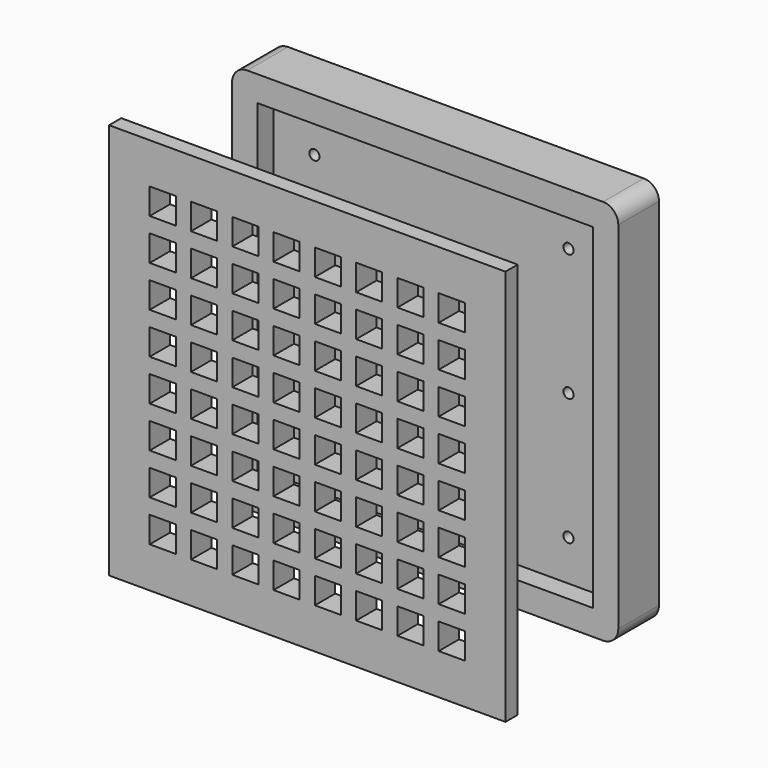
from build123d import *

# Parameters (mm, degrees)
SKETCH001_W                     = 76
SKETCH001_H                     = 76
PAD_DEPTH                       = 10
SKETCH_W                        = 66
SKETCH_H                        = 66
POCKET_DEPTH                    = 4
SKETCH002_R                     = 1
POCKET001_DEPTH                 = 10.001
FILLET_R                        = 3
SKETCH003_W                     = 78
SKETCH003_H                     = 78
PAD001_DEPTH                    = 3
SKETCH005_W                     = 66
SKETCH005_H                     = 66
PAD002_DEPTH                    = 2
SKETCH004_W                     = 5.13
SKETCH004_H                     = 5.13
POCKET002_DEPTH                 = 225.844836
SKETCH004_LINEARPATTERN_2_W     = 5.13
SKETCH004_LINEARPATTERN_2_H     = 5.13
POCKET002_LINEARPATTERN_2_DEPTH = 225.844836
SKETCH004_LINEARPATTERN_3_W     = 5.13
SKETCH004_LINEARPATTERN_3_H     = 5.13
POCKET002_LINEARPATTERN_3_DEPTH = 225.844836
SKETCH004_LINEARPATTERN_4_W     = 5.13
SKETCH004_LINEARPATTERN_4_H     = 5.13
POCKET002_LINEARPATTERN_4_DEPTH = 225.844836
SKETCH004_LINEARPATTERN_5_W     = 5.13
SKETCH004_LINEARPATTERN_5_H     = 5.13
POCKET002_LINEARPATTERN_5_DEPTH = 225.844836
SKETCH004_LINEARPATTERN_6_W     = 5.13
SKETCH004_LINEARPATTERN_6_H     = 5.13
POCKET002_LINEARPATTERN_6_DEPTH = 225.844836
SKETCH004_LINEARPATTERN_7_W     = 5.13
SKETCH004_LINEARPATTERN_7_H     = 5.13
POCKET002_LINEARPATTERN_7_DEPTH = 225.844836
SKETCH004_LINEARPATTERN_8_W     = 5.13
SKETCH004_LINEARPATTERN_8_H     = 5.13
POCKET002_LINEARPATTERN_8_DEPTH = 225.844836
LINEARPATTERN001_COUNT          = 8
LINEARPATTERN001_PITCH          = 8.124286


with BuildPart() as body:
    # Sketch001 → Pad (new body)
    with BuildSketch(Plane.XZ):
        Rectangle(SKETCH001_W, SKETCH001_H)
    extrude(amount=-PAD_DEPTH)

    # Sketch → Pocket (cut)
    with BuildSketch(Plane.XZ):
        Rectangle(SKETCH_W, SKETCH_H)
    extrude(amount=-POCKET_DEPTH, mode=Mode.SUBTRACT)

    # Sketch002 → Pocket001 (cut, through all)
    with BuildSketch(Plane.XZ):
        with Locations((-25, 25)):
            Circle(SKETCH002_R)
        with Locations((25, 25)):
            Circle(SKETCH002_R)
        with Locations((25, -25)):
            Circle(SKETCH002_R)
        with Locations((-25, -25)):
            Circle(SKETCH002_R)
        with Locations((-25, 0)):
            Circle(SKETCH002_R)
        with Locations((25, 0)):
            Circle(SKETCH002_R)
    extrude(amount=-POCKET001_DEPTH, mode=Mode.SUBTRACT)

    # Fillet
    fillet_edges = [body.edges().sort_by_distance(p)[0] for p in [
        (-38, 5, 38),
        (-38, 5, -38),
        (38, 5, 38),
        (38, 5, -38),
    ]]
    fillet(fillet_edges, radius=FILLET_R)


with BuildPart() as body001:
    # Sketch003 → Pad001 (new body)
    with BuildSketch(Plane.XZ):
        Rectangle(SKETCH003_W, SKETCH003_H)
    extrude(amount=PAD001_DEPTH)

    # Sketch005 → Pad002 (join)
    with BuildSketch(Plane.XZ):
        Rectangle(SKETCH005_W, SKETCH005_H)
    extrude(amount=-PAD002_DEPTH)

    # Sketch004 → Pocket002 (cut, through all)
    with BuildSketch(Plane.XZ.offset(3)):
        with Locations((-28.435, 28.435)):
            Rectangle(SKETCH004_W, SKETCH004_H)
    pocket002 = extrude(amount=-POCKET002_DEPTH, mode=Mode.SUBTRACT)

    # Sketch004 LinearPattern 2 → Pocket002 LinearPattern 2 (cut, through all)
    with BuildSketch(Plane(origin=(0, -3, -8.124286), x_dir=(1, 0, 0), z_dir=(0, -1, 0))):
        with Locations((-28.435, 28.435)):
            Rectangle(SKETCH004_LINEARPATTERN_2_W, SKETCH004_LINEARPATTERN_2_H)
    pocket002_linearpattern_2 = extrude(amount=-POCKET002_LINEARPATTERN_2_DEPTH, mode=Mode.SUBTRACT)

    # Sketch004 LinearPattern 3 → Pocket002 LinearPattern 3 (cut, through all)
    with BuildSketch(Plane(origin=(0, -3, -16.248571), x_dir=(1, 0, 0), z_dir=(0, -1, 0))):
        with Locations((-28.435, 28.435)):
            Rectangle(SKETCH004_LINEARPATTERN_3_W, SKETCH004_LINEARPATTERN_3_H)
    pocket002_linearpattern_3 = extrude(amount=-POCKET002_LINEARPATTERN_3_DEPTH, mode=Mode.SUBTRACT)

    # Sketch004 LinearPattern 4 → Pocket002 LinearPattern 4 (cut, through all)
    with BuildSketch(Plane(origin=(0, -3, -24.372857), x_dir=(1, 0, 0), z_dir=(0, -1, 0))):
        with Locations((-28.435, 28.435)):
            Rectangle(SKETCH004_LINEARPATTERN_4_W, SKETCH004_LINEARPATTERN_4_H)
    pocket002_linearpattern_4 = extrude(amount=-POCKET002_LINEARPATTERN_4_DEPTH, mode=Mode.SUBTRACT)

    # Sketch004 LinearPattern 5 → Pocket002 LinearPattern 5 (cut, through all)
    with BuildSketch(Plane(origin=(0, -3, -32.497143), x_dir=(1, 0, 0), z_dir=(0, -1, 0))):
        with Locations((-28.435, 28.435)):
            Rectangle(SKETCH004_LINEARPATTERN_5_W, SKETCH004_LINEARPATTERN_5_H)
    pocket002_linearpattern_5 = extrude(amount=-POCKET002_LINEARPATTERN_5_DEPTH, mode=Mode.SUBTRACT)

    # Sketch004 LinearPattern 6 → Pocket002 LinearPattern 6 (cut, through all)
    with BuildSketch(Plane(origin=(0, -3, -40.621429), x_dir=(1, 0, 0), z_dir=(0, -1, 0))):
        with Locations((-28.435, 28.435)):
            Rectangle(SKETCH004_LINEARPATTERN_6_W, SKETCH004_LINEARPATTERN_6_H)
    pocket002_linearpattern_6 = extrude(amount=-POCKET002_LINEARPATTERN_6_DEPTH, mode=Mode.SUBTRACT)

    # Sketch004 LinearPattern 7 → Pocket002 LinearPattern 7 (cut, through all)
    with BuildSketch(Plane(origin=(0, -3, -48.745714), x_dir=(1, 0, 0), z_dir=(0, -1, 0))):
        with Locations((-28.435, 28.435)):
            Rectangle(SKETCH004_LINEARPATTERN_7_W, SKETCH004_LINEARPATTERN_7_H)
    pocket002_linearpattern_7 = extrude(amount=-POCKET002_LINEARPATTERN_7_DEPTH, mode=Mode.SUBTRACT)

    # Sketch004 LinearPattern 8 → Pocket002 LinearPattern 8 (cut, through all)
    with BuildSketch(Plane(origin=(0, -3, -56.87), x_dir=(1, 0, 0), z_dir=(0, -1, 0))):
        with Locations((-28.435, 28.435)):
            Rectangle(SKETCH004_LINEARPATTERN_8_W, SKETCH004_LINEARPATTERN_8_H)
    pocket002_linearpattern_8 = extrude(amount=-POCKET002_LINEARPATTERN_8_DEPTH, mode=Mode.SUBTRACT)

    # LinearPattern001: Pocket002, Pocket002 LinearPattern 2, Pocket002 LinearPattern 3, Pocket002 LinearPattern 4, Pocket002 LinearPattern 5, Pocket002 LinearPattern 6, Pocket002 LinearPattern 7, Pocket002 LinearPattern 8 ×8
    with Locations(*[(i * LINEARPATTERN001_PITCH, 0, 0) for i in range(1, LINEARPATTERN001_COUNT)]):
        add(pocket002, mode=Mode.SUBTRACT)
        add(pocket002_linearpattern_2, mode=Mode.SUBTRACT)
        add(pocket002_linearpattern_3, mode=Mode.SUBTRACT)
        add(pocket002_linearpattern_4, mode=Mode.SUBTRACT)
        add(pocket002_linearpattern_5, mode=Mode.SUBTRACT)
        add(pocket002_linearpattern_6, mode=Mode.SUBTRACT)
        add(pocket002_linearpattern_7, mode=Mode.SUBTRACT)
        add(pocket002_linearpattern_8, mode=Mode.SUBTRACT)


with BuildPart() as body001_1:
    # Body001 placement: moved
    add(body001.part.moved(Location((0, -26, 0))))


solid = Compound([body.part, body001_1.part])
